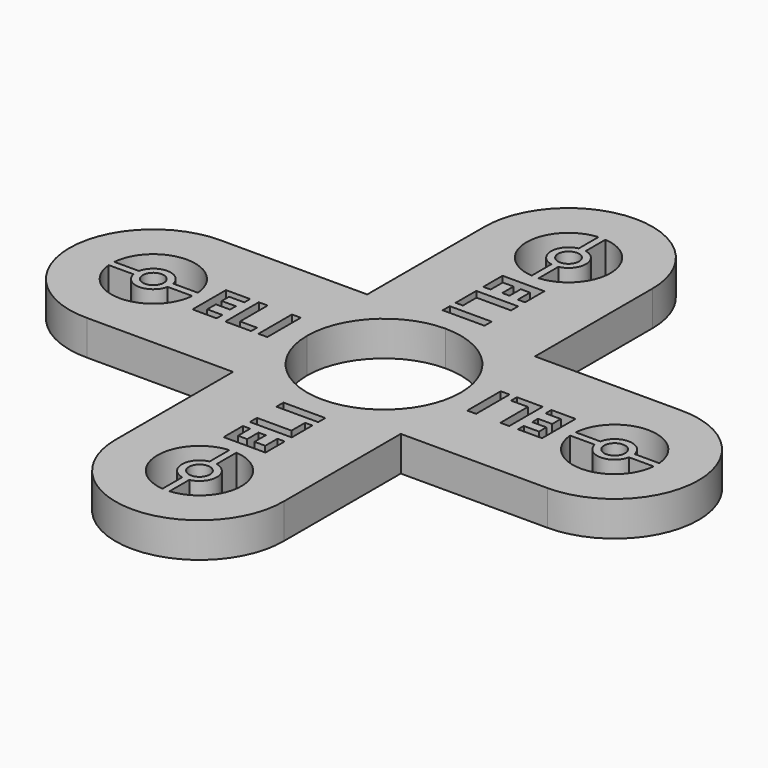
from build123d import *

# Parameters (mm, degrees)
F0_R     = 1.5
F1_DEPTH = 5
F2_COUNT = 4


with BuildPart() as f1:
    # F0 (on Top) → F1 (new body)
    with BuildSketch(Plane.XY):
        with BuildLine():
            ThreePointArc((-21, 0), (-24.5147186258, 8.4852813742), (-33, 12))
            ThreePointArc((-33, 12), (-44.9999119071, -0.0459806707), (-32.9080393338, -11.9996476297))
            ThreePointArc((-32.9080393338, -11.9996476297), (-24.4822676728, -8.4527058391), (-21, 0))
        make_face()
        Polygon((-21.6812912544, 0.6075373587), (-21.6812912544, 0), (-21.6812912544, -0.4327508824), (-23.7081500818, -0.4327508824), (-23.7081500818, -1.9761508169), (-21.5306197837, -1.9761508169), (-21.5306197837, -3.0243001782), (-24.9777209956, -3.0243001782), (-24.9777209956, 0), (-24.9777209956, 2.9619428615), (-21.5306197837, 2.9619428615), (-21.5306197837, 1.9216546204), (-23.7081500818, 1.9216546204), (-23.7081500818, 0.6075373587), align=None, mode=Mode.SUBTRACT)
        with BuildLine():
            ThreePointArc((-27.0208696284, 0.5), (-27.0052196775, 0.2502176759), (-27, 0))
            ThreePointArc((-27, 0), (-27.0052196775, -0.2502176759), (-27.0208696284, -0.5))
            ThreePointArc((-27.0208696284, -0.5), (-33, -6), (-38.9791303716, -0.5))
            ThreePointArc((-38.9791303716, -0.5), (-39, 0), (-38.9791303716, 0.5))
            ThreePointArc((-38.9791303716, 0.5), (-33, 6), (-27.0208696284, 0.5))
        make_face(mode=Mode.SUBTRACT)
        with BuildLine():
            ThreePointArc((-21, 0), (-24.5147186258, 8.4852813742), (-33, 12))
            ThreePointArc((-33, 12), (-44.9999119071, -0.0459806707), (-32.9080393338, -11.9996476297))
            ThreePointArc((-32.9080393338, -11.9996476297), (-24.4822676728, -8.4527058391), (-21, 0))
        make_face()
        Polygon((-21.6812912544, 0.6075373587), (-21.6812912544, 0), (-21.6812912544, -0.4327508824), (-23.7081500818, -0.4327508824), (-23.7081500818, -1.9761508169), (-21.5306197837, -1.9761508169), (-21.5306197837, -3.0243001782), (-24.9777209956, -3.0243001782), (-24.9777209956, 0), (-24.9777209956, 2.9619428615), (-21.5306197837, 2.9619428615), (-21.5306197837, 1.9216546204), (-23.7081500818, 1.9216546204), (-23.7081500818, 0.6075373587), align=None, mode=Mode.SUBTRACT)
        with BuildLine():
            ThreePointArc((-27.0208696284, 0.5), (-27.0052196775, 0.2502176759), (-27, 0))
            ThreePointArc((-27, 0), (-27.0052196775, -0.2502176759), (-27.0208696284, -0.5))
            ThreePointArc((-27.0208696284, -0.5), (-33, -6), (-38.9791303716, -0.5))
            ThreePointArc((-38.9791303716, -0.5), (-39, 0), (-38.9791303716, 0.5))
            ThreePointArc((-38.9791303716, 0.5), (-33, 6), (-27.0208696284, 0.5))
        make_face(mode=Mode.SUBTRACT)
        with BuildLine():
            ThreePointArc((-21, 0), (-24.5147186258, 8.4852813742), (-33, 12))
            ThreePointArc((-33, 12), (-44.9999119071, -0.0459806707), (-32.9080393338, -11.9996476297))
            ThreePointArc((-32.9080393338, -11.9996476297), (-24.4822676728, -8.4527058391), (-21, 0))
        make_face()
        Polygon((-21.6812912544, 0.6075373587), (-21.6812912544, 0), (-21.6812912544, -0.4327508824), (-23.7081500818, -0.4327508824), (-23.7081500818, -1.9761508169), (-21.5306197837, -1.9761508169), (-21.5306197837, -3.0243001782), (-24.9777209956, -3.0243001782), (-24.9777209956, 0), (-24.9777209956, 2.9619428615), (-21.5306197837, 2.9619428615), (-21.5306197837, 1.9216546204), (-23.7081500818, 1.9216546204), (-23.7081500818, 0.6075373587), align=None, mode=Mode.SUBTRACT)
        with BuildLine():
            ThreePointArc((-27.0208696284, 0.5), (-27.0052196775, 0.2502176759), (-27, 0))
            ThreePointArc((-27, 0), (-27.0052196775, -0.2502176759), (-27.0208696284, -0.5))
            ThreePointArc((-27.0208696284, -0.5), (-33, -6), (-38.9791303716, -0.5))
            ThreePointArc((-38.9791303716, -0.5), (-39, 0), (-38.9791303716, 0.5))
            ThreePointArc((-38.9791303716, 0.5), (-33, 6), (-27.0208696284, 0.5))
        make_face(mode=Mode.SUBTRACT)
        with BuildLine():
            ThreePointArc((-11, 0), (-7.7781745931, 7.7781745931), (0, 11))
            Line((0, 11), (0, 12))
            Line((0, 12), (-33, 12))
            ThreePointArc((-33, 12), (-24.5147186258, 8.4852813742), (-21, 0))
            Line((-21, 0), (-20.2820118571, 0))
            Line((-20.2820118571, 0), (-20.2820118571, 2.9619428615))
            Line((-20.2820118571, 2.9619428615), (-19.0124409432, 2.9619428615))
            Line((-19.0124409432, 2.9619428615), (-19.0124409432, 0))
            Line((-19.0124409432, 0), (-15.5443767441, 0))
            Line((-15.5443767441, 0), (-15.5443767441, 2.9619428615))
            Line((-15.5443767441, 2.9619428615), (-14.2748058302, 2.9619428615))
            Line((-14.2748058302, 2.9619428615), (-14.2748058302, 0))
            Line((-14.2748058302, 0), (-11, 0))
        make_face()
        with BuildLine():
            Line((0, -11.9996476297), (0, -11))
            ThreePointArc((0, -11), (-7.7781745931, -7.7781745931), (-11, 0))
            Line((-11, 0), (-14.2748058302, 0))
            Line((-14.2748058302, 0), (-14.2748058302, -3.0243001782))
            Line((-14.2748058302, -3.0243001782), (-15.5443767441, -3.0243001782))
            Line((-15.5443767441, -3.0243001782), (-15.5443767441, 0))
            Line((-15.5443767441, 0), (-19.0124409432, 0))
            Line((-19.0124409432, 0), (-19.0124409432, -1.9761508169))
            Line((-19.0124409432, -1.9761508169), (-16.5846649851, -1.9761508169))
            Line((-16.5846649851, -1.9761508169), (-16.5846649851, -3.0243001782))
            Line((-16.5846649851, -3.0243001782), (-20.2820118571, -3.0243001782))
            Line((-20.2820118571, -3.0243001782), (-20.2820118571, 0))
            Line((-20.2820118571, 0), (-21, 0))
            ThreePointArc((-21, 0), (-24.4822676728, -8.4527058391), (-32.9080393338, -11.9996476297))
            Line((-32.9080393338, -11.9996476297), (0, -11.9996476297))
        make_face()
        with BuildLine():
            ThreePointArc((-30.5505102572, -0.5), (-30.5126596175, -0.251272405), (-30.5, 0))
            ThreePointArc((-30.5, 0), (-30.5126596175, 0.251272405), (-30.5505102572, 0.5))
            ThreePointArc((-30.5505102572, 0.5), (-33, 2.5), (-35.4494897428, 0.5))
            ThreePointArc((-35.4494897428, 0.5), (-35.5, 0), (-35.4494897428, -0.5))
            ThreePointArc((-35.4494897428, -0.5), (-33, -2.5), (-30.5505102572, -0.5))
        make_face()
        with Locations((-33, 0)):
            Circle(F0_R, mode=Mode.SUBTRACT)
        with BuildLine():
            Line((-35.4494897428, 0.5), (-38.9791303716, 0.5))
            ThreePointArc((-38.9791303716, 0.5), (-39, 0), (-38.9791303716, -0.5))
            Line((-38.9791303716, -0.5), (-35.4494897428, -0.5))
            ThreePointArc((-35.4494897428, -0.5), (-35.5, 0), (-35.4494897428, 0.5))
        make_face()
        with BuildLine():
            ThreePointArc((-27.0208696284, -0.5), (-27.0052196775, -0.2502176759), (-27, 0))
            Line((-27, 0), (-30.5, 0))
            ThreePointArc((-30.5, 0), (-30.5126596175, -0.251272405), (-30.5505102572, -0.5))
            Line((-30.5505102572, -0.5), (-27.0208696284, -0.5))
        make_face()
        with BuildLine():
            Line((-30.5, 0), (-27, 0))
            ThreePointArc((-27, 0), (-27.0052196775, 0.2502176759), (-27.0208696284, 0.5))
            Line((-27.0208696284, 0.5), (-30.5505102572, 0.5))
            ThreePointArc((-30.5505102572, 0.5), (-30.5126596175, 0.251272405), (-30.5, 0))
        make_face()
    extrude(amount=F1_DEPTH)

    # F2: F1 ×4 about axis
    f2_axis = Axis((0, 0, 5), (0, 0, -1))


with BuildPart() as f1_1:
    add(f1.part)
    for i in range(1, F2_COUNT):
        add(f1.part.rotate(f2_axis, i * 360 / F2_COUNT))


solid = f1_1.part
